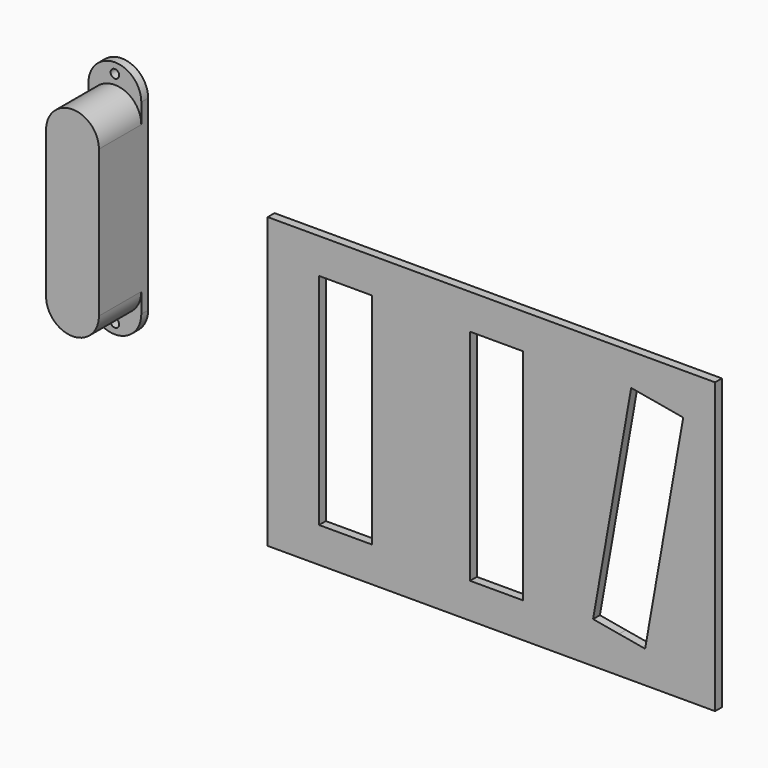
from build123d import *

# Parameters (mm, degrees)
F2_DEPTH = 21.59
F0_R     = 1.5
F3_DEPTH = 3
F1_W     = 157
F1_H     = 101.6
F1_W_2   = 18.542
F1_H_2   = 76.962
F4_DEPTH = 3


with BuildPart() as f2:
    # F0 (on Front) → F2 (new body)
    with BuildSketch(Plane.XZ):
        with BuildLine():
            Line((-43.668363, 0), (-43.668363, 51.562))
            ThreePointArc((-43.668363, 51.562), (-52.939363, 60.833), (-62.210363, 51.562))
            Line((-62.210363, 51.562), (-62.210363, 0))
            ThreePointArc((-62.210363, 0), (-52.939363, -9.271), (-43.668363, 0))
        make_face()
    extrude(amount=F2_DEPTH)

    # F0 (on Front) → F3 (join)
    with BuildSketch(Plane.XZ):
        with BuildLine():
            Line((-43.668363, 0), (-43.668363, 51.562))
            ThreePointArc((-43.668363, 51.562), (-52.939363, 60.833), (-62.210363, 51.562))
            Line((-62.210363, 51.562), (-62.210363, 0))
            ThreePointArc((-62.210363, 0), (-52.939363, -9.271), (-43.668363, 0))
        make_face()
        with BuildLine():
            ThreePointArc((-62.210363, 51.562), (-52.939363, 60.833), (-43.668363, 51.562))
            Line((-43.668363, 51.562), (-43.668363, 58.547))
            ThreePointArc((-43.668363, 58.547), (-52.939363, 67.818), (-62.210363, 58.547))
            Line((-62.210363, 58.547), (-62.210363, 51.562))
        make_face()
        with Locations((-52.939363, 64.262)):
            Circle(F0_R, mode=Mode.SUBTRACT)
        with BuildLine():
            Line((-43.668363, -6.985), (-43.668363, 0))
            ThreePointArc((-43.668363, 0), (-52.939363, -9.271), (-62.210363, 0))
            Line((-62.210363, 0), (-62.210363, -6.985))
            ThreePointArc((-62.210363, -6.985), (-52.939363, -16.256), (-43.668363, -6.985))
        make_face()
        with Locations((-52.939363, -12.7)):
            Circle(F0_R, mode=Mode.SUBTRACT)
    extrude(amount=F3_DEPTH)


with BuildPart() as f4:
    # F1 (on Front) → F4 (new body)
    with BuildSketch(Plane.XZ):
        with Locations((79.19958, -13.361576)):
            Rectangle(F1_W, F1_H)
        with Locations((27.97058, -13.361576)):
            Rectangle(F1_W_2, F1_H_2, mode=Mode.SUBTRACT)
        with Locations((80.97058, -13.361576)):
            Rectangle(F1_W_2, F1_H_2, mode=Mode.SUBTRACT)
        Polygon((114.887272, -49.648071), (128.251583, 26.144704), (137.381736, 24.534811), (146.511888, 22.924919), (133.147577, -52.867855), (124.017425, -51.257963), align=None, mode=Mode.SUBTRACT)
    extrude(amount=F4_DEPTH)


solid = Compound([f2.part, f4.part])
